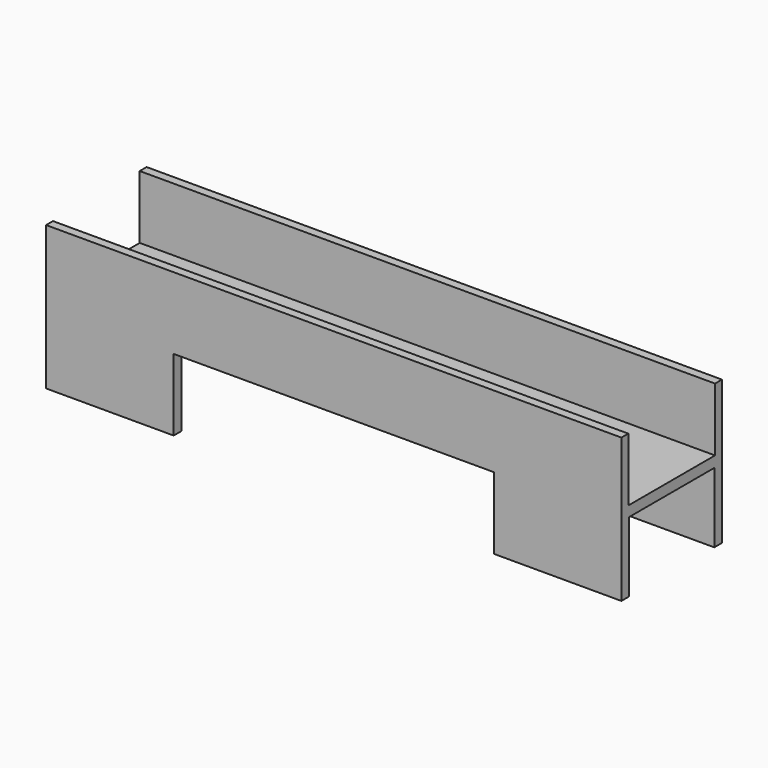
from build123d import *

# Parameters (mm, degrees)
F0_W     = 200
F0_H     = 25
F1_DEPTH = 43.688
F2_W     = 37.688
F2_H     = 22
F3_DEPTH = 200.001
F4_W     = 44.3474374712
F4_H     = 43.688
F5_DEPTH = 25
F7_W     = 36.9936539792
F7_H     = 24.3178982288
F8_DEPTH = 200.001


with BuildPart() as f1:
    # F0 (on Front) → F1 (new body)
    with BuildSketch(Plane.XZ):
        Rectangle(F0_W, F0_H)
    extrude(amount=F1_DEPTH)

    # F2 (on face) → F3 (cut, through all)
    with BuildSketch(Plane.YZ.offset(100)):
        with Locations((-21.844, 1.5)):
            Rectangle(F2_W, F2_H)
    extrude(amount=-F3_DEPTH, mode=Mode.SUBTRACT)

    # F4 (on face) → F5 (join)
    with BuildSketch(Plane(origin=(0, 0, -12.5), x_dir=(1, 0, 0), z_dir=(0, 0, -1))):
        with Locations((77.8262812644, 21.844)):
            Rectangle(F4_W, F4_H)
    extrude(amount=F5_DEPTH)

    # F6: F1 across plane


with BuildPart() as f1_1:
    add(f1.part)
    add(f1.part.mirror(Plane.YZ))

    # F7 (on face) → F8 (cut, through all)
    with BuildSketch(Plane.YZ.offset(100)):
        with Locations((-21.8255401123, -25.3410508856)):
            Rectangle(F7_W, F7_H)
    extrude(amount=-F8_DEPTH, mode=Mode.SUBTRACT)


solid = f1_1.part
